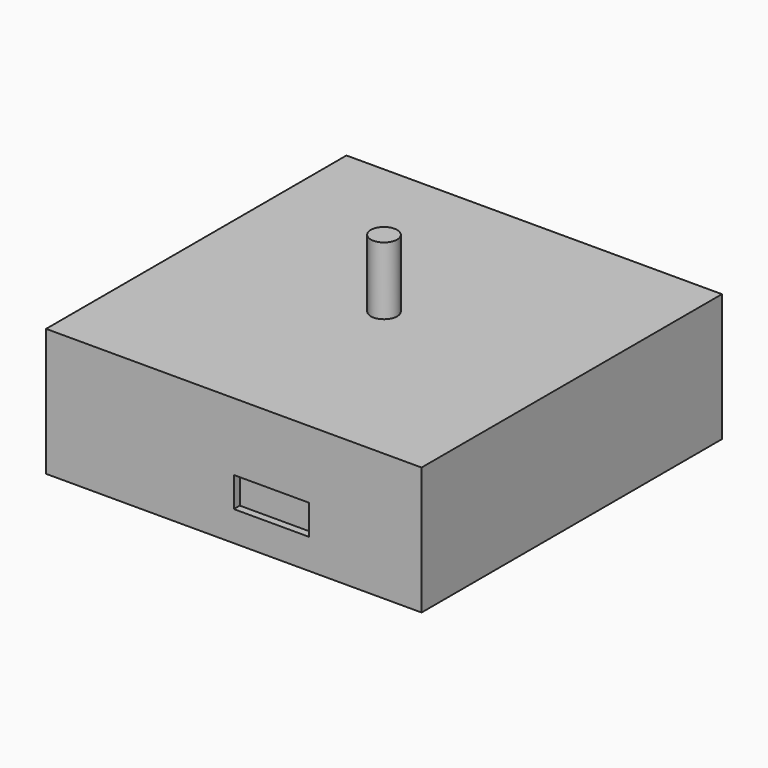
from build123d import *

# Parameters (mm, degrees)
SKETCH_W     = 50
SKETCH_H     = 50
PAD_DEPTH    = 17
SKETCH001_R  = 1.75
PAD001_DEPTH = 9
SKETCH002_W  = 10
SKETCH002_H  = 4
POCKET_DEPTH = 1


with BuildPart() as part:
    # Sketch → Pad (new body)
    with BuildSketch(Plane.XY):
        Rectangle(SKETCH_W, SKETCH_H)
    extrude(amount=PAD_DEPTH)

    # Sketch001 (on Face6 of Pad) → Pad001 (join)
    with BuildSketch(Plane.XY.offset(17)):
        Circle(SKETCH001_R)
    extrude(amount=PAD001_DEPTH)

    # Sketch002 (on Face6 of Pad001) → Pocket (cut)
    with BuildSketch(Plane.XZ.offset(25)):
        with Locations((5, 6)):
            Rectangle(SKETCH002_W, SKETCH002_H)
    extrude(amount=-POCKET_DEPTH, mode=Mode.SUBTRACT)


solid = part.part
